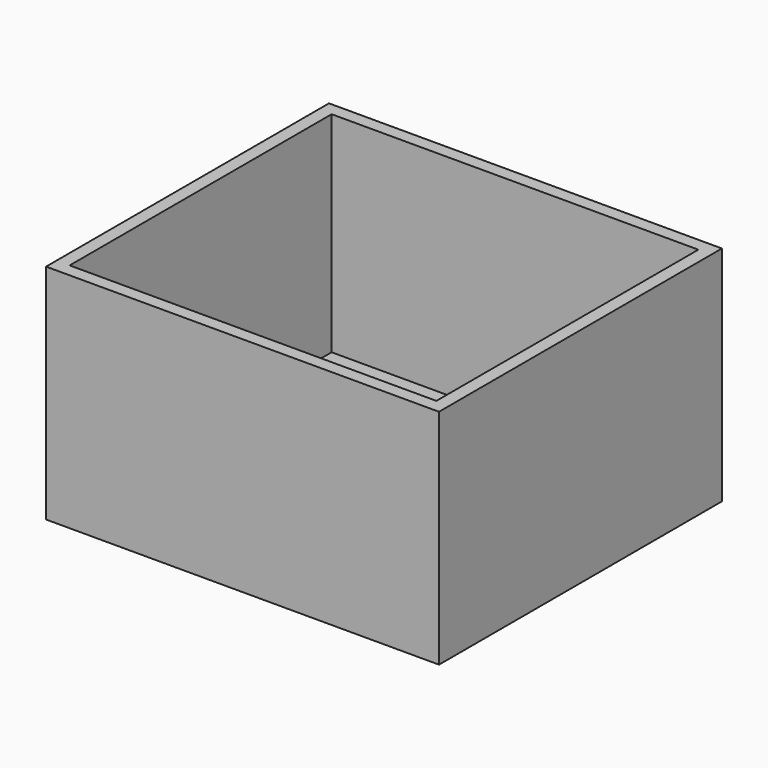
from build123d import *

# Parameters (mm, degrees)
SKETCH004_W   = 150
SKETCH004_H   = 135
PAD003_DEPTH  = 5
SKETCH005_W   = 150
SKETCH005_H   = 135
SKETCH005_W_2 = 140
SKETCH005_H_2 = 125
PAD004_DEPTH  = 80


with BuildPart() as part:
    # Sketch004 → Pad003 (new body)
    with BuildSketch(Plane.XY):
        with Locations((75, 67.5)):
            Rectangle(SKETCH004_W, SKETCH004_H)
    extrude(amount=PAD003_DEPTH)

    # Sketch005 → Pad004 (new body)
    with BuildSketch(Plane.XY.offset(5)):
        with Locations((75, 67.5)):
            Rectangle(SKETCH005_W, SKETCH005_H)
        with Locations((75, 67.5)):
            Rectangle(SKETCH005_W_2, SKETCH005_H_2, mode=Mode.SUBTRACT)
    extrude(amount=PAD004_DEPTH)


solid = part.part
